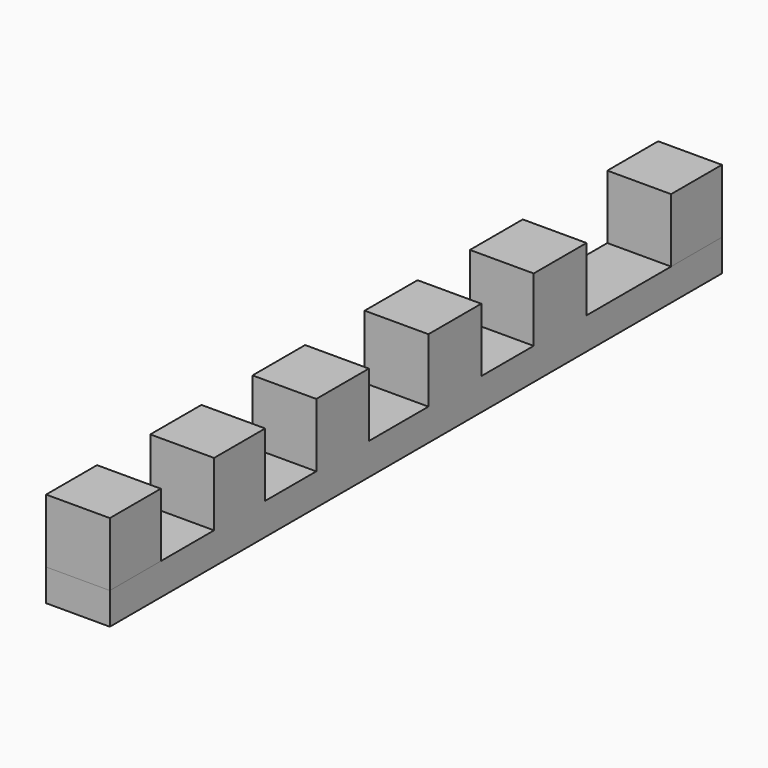
from build123d import *

# Parameters (mm, degrees)
F0_W     = 12.7
F0_H     = 152.4
F1_DEPTH = 6.35
F2_W     = 12.7115957439
F2_H     = 12.6547422051
F3_DEPTH = 12.7
F2_W_2   = 12.751204893
F2_W_3   = 12.7115929499
F2_W_4   = 12.6353409141
F2_W_5   = 12.5799756497
F2_W_6   = 12.2375227511
F2_W_7   = 12.5007666647
F2_W_8   = 12.7
F4_W     = 12.3231597245
F4_H     = 12.6880295575
F5_DEPTH = 12.7
F4_W_2   = 12.9681192338
F4_W_3   = 12.7036152408
F4_W_4   = 12.8452572972
F4_W_5   = 13.1434928626
F4_W_6   = 12.528244406
F4_W_7   = 11.9724087417
F4_W_8   = 12.7
F6_W     = 12.7
F6_H     = 13.0946394056
F6_H_2   = 13.1554147229
F6_H_3   = 13.1554119289
F6_H_4   = 12.7253122628
F7_DEPTH = 12.7


with BuildPart() as f1:
    # F0 (on Top) → F1 (new body)
    with BuildSketch(Plane.XY):
        with Locations((-71.159024334, 1.0294830322)):
            Rectangle(F0_W, F0_H)
    extrude(amount=F1_DEPTH)

    # F6 (on face) → F7 (join)
    with BuildSketch(Plane.XY.offset(6.35)):
        with Locations((-71.159024334, -17.2217907384)):
            Rectangle(F6_W, F6_H)
        with Locations((-71.159024334, 10.7322898693)):
            Rectangle(F6_W, F6_H_2)
        with Locations((-71.159024334, 36.9402673095)):
            Rectangle(F6_W, F6_H_3)
        with Locations((-71.159024334, -42.8570825607)):
            Rectangle(F6_W, F6_H_4)
    extrude(amount=F7_DEPTH)


with BuildPart() as f1b:
    # F0 (on Top) → F1, piece 2 (new body)
    with BuildSketch(Plane.XY):
        with Locations((-51.1211747468, 1.0294830322)):
            Rectangle(F0_W, F0_H)
    extrude(amount=F1_DEPTH)


with BuildPart() as f1c:
    # F0 (on Top) → F1, piece 3 (new body)
    with BuildSketch(Plane.XY):
        with Locations((-32.7470557928, 1.0294830322)):
            Rectangle(F0_W, F0_H)
    extrude(amount=F1_DEPTH)


with BuildPart() as f1d:
    # F0 (on Top) → F1, piece 4 (new body)
    with BuildSketch(Plane.XY):
        with Locations((-16.4686223328, 1.0294830322)):
            Rectangle(F0_W, F0_H)
    extrude(amount=F1_DEPTH)


with BuildPart() as f1e:
    # F0 (on Top) → F1, piece 5 (new body)
    with BuildSketch(Plane.XY):
        with Locations((6.35, 1.0294830322)):
            Rectangle(F0_W, F0_H)
    extrude(amount=F1_DEPTH)


with BuildPart() as f1f:
    # F0 (on Top) → F1, piece 6 (new body)
    with BuildSketch(Plane.XY):
        with Locations((25.6913216621, 1.0294830322)):
            Rectangle(F0_W, F0_H)
    extrude(amount=F1_DEPTH)


with BuildPart() as f1g:
    # F0 (on Top) → F1, piece 7 (new body)
    with BuildSketch(Plane.XY):
        with Locations((46.5542903006, 1.0294830322)):
            Rectangle(F0_W, F0_H)
    extrude(amount=F1_DEPTH)


with BuildPart() as f1h:
    # F0 (on Top) → F1, piece 8 (new body)
    with BuildSketch(Plane.XY):
        with Locations((68.2591391563, 1.0294830322)):
            Rectangle(F0_W, F0_H)
    extrude(amount=F1_DEPTH)


with BuildPart() as f3:
    # F2 (on face) → F3 (new body)
    with BuildSketch(Plane.XY.offset(6.35)):
        with Locations((-50.8954767138, 70.9021119297)):
            Rectangle(F2_W, F2_H)
    extrude(amount=F3_DEPTH)


with BuildPart() as f3b:
    # F2 (on face) → F3, piece 2 (new body)
    with BuildSketch(Plane.XY.offset(6.35)):
        with Locations((-32.5111793354, 70.9021119297)):
            Rectangle(F2_W_2, F2_H)
    extrude(amount=F3_DEPTH)


with BuildPart() as f3c:
    # F2 (on face) → F3, piece 3 (new body)
    with BuildSketch(Plane.XY.offset(6.35)):
        with Locations((-16.0371768288, 70.9021119297)):
            Rectangle(F2_W_3, F2_H)
    extrude(amount=F3_DEPTH)


with BuildPart() as f3d:
    # F2 (on face) → F3, piece 4 (new body)
    with BuildSketch(Plane.XY.offset(6.35)):
        with Locations((6.3176704571, 70.9021119297)):
            Rectangle(F2_W_4, F2_H)
    extrude(amount=F3_DEPTH)


with BuildPart() as f3e:
    # F2 (on face) → F3, piece 5 (new body)
    with BuildSketch(Plane.XY.offset(6.35)):
        with Locations((26.2380959466, 70.9021119297)):
            Rectangle(F2_W_5, F2_H)
    extrude(amount=F3_DEPTH)


with BuildPart() as f3f:
    # F2 (on face) → F3, piece 6 (new body)
    with BuildSketch(Plane.XY.offset(6.35)):
        with Locations((47.2374055535, 70.9021119297)):
            Rectangle(F2_W_6, F2_H)
    extrude(amount=F3_DEPTH)


with BuildPart() as f3g:
    # F2 (on face) → F3, piece 7 (new body)
    with BuildSketch(Plane.XY.offset(6.35)):
        with Locations((68.3683436364, 70.9021119297)):
            Rectangle(F2_W_7, F2_H)
    extrude(amount=F3_DEPTH)


with BuildPart() as f3h:
    # F2 (on face) → F3, piece 8 (new body)
    with BuildSketch(Plane.XY.offset(6.35)):
        with Locations((-71.159024334, 70.9021119297)):
            Rectangle(F2_W_8, F2_H)
    extrude(amount=F3_DEPTH)


with BuildPart() as f5:
    # F4 (on face) → F5 (new body)
    with BuildSketch(Plane.XY.offset(6.35)):
        with Locations((-51.4552425593, -68.826502189)):
            Rectangle(F4_W, F4_H)
    extrude(amount=F5_DEPTH)


with BuildPart() as f5b:
    # F4 (on face) → F5, piece 2 (new body)
    with BuildSketch(Plane.XY.offset(6.35)):
        with Locations((-32.7577721328, -68.826502189)):
            Rectangle(F4_W_2, F4_H)
    extrude(amount=F5_DEPTH)


with BuildPart() as f5c:
    # F4 (on face) → F5, piece 3 (new body)
    with BuildSketch(Plane.XY.offset(6.35)):
        with Locations((-16.3876046427, -68.826502189)):
            Rectangle(F4_W_3, F4_H)
    extrude(amount=F5_DEPTH)


with BuildPart() as f5d:
    # F4 (on face) → F5, piece 4 (new body)
    with BuildSketch(Plane.XY.offset(6.35)):
        with Locations((6.4226286486, -68.826502189)):
            Rectangle(F4_W_4, F4_H)
    extrude(amount=F5_DEPTH)


with BuildPart() as f5e:
    # F4 (on face) → F5, piece 5 (new body)
    with BuildSketch(Plane.XY.offset(6.35)):
        with Locations((25.6442101672, -68.826502189)):
            Rectangle(F4_W_5, F4_H)
    extrude(amount=F5_DEPTH)


with BuildPart() as f5f:
    # F4 (on face) → F5, piece 6 (new body)
    with BuildSketch(Plane.XY.offset(6.35)):
        with Locations((46.3153552264, -68.826502189)):
            Rectangle(F4_W_6, F4_H)
    extrude(amount=F5_DEPTH)


with BuildPart() as f5g:
    # F4 (on face) → F5, piece 7 (new body)
    with BuildSketch(Plane.XY.offset(6.35)):
        with Locations((68.3626625687, -68.826502189)):
            Rectangle(F4_W_7, F4_H)
    extrude(amount=F5_DEPTH)


with BuildPart() as f5h:
    # F4 (on face) → F5, piece 8 (new body)
    with BuildSketch(Plane.XY.offset(6.35)):
        with Locations((-71.159024334, -68.826502189)):
            Rectangle(F4_W_8, F4_H)
    extrude(amount=F5_DEPTH)


solid = Compound([f1.part, f3h.part, f5h.part])
